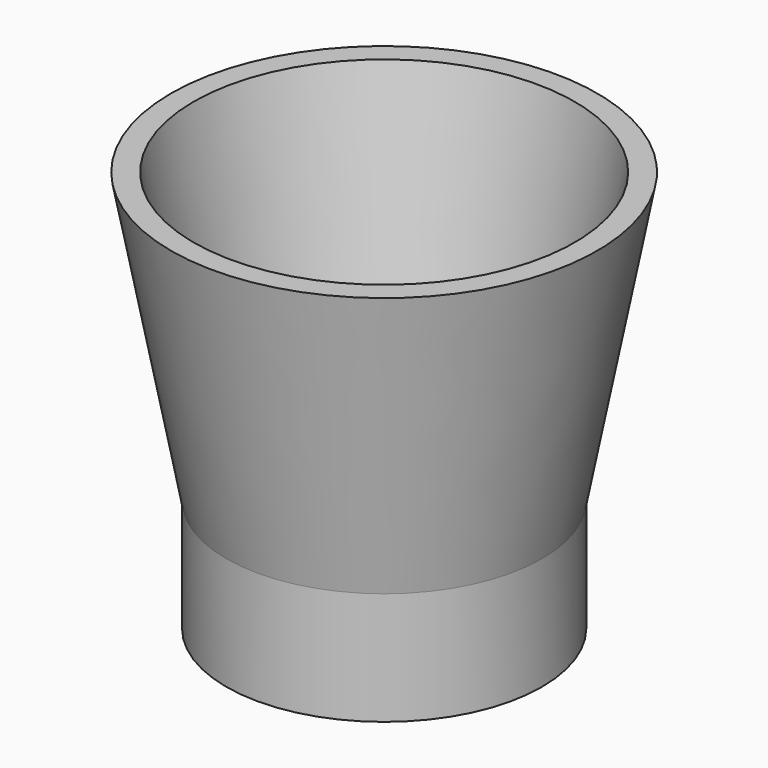
from build123d import *

# Parameters (mm, degrees)
F2_W     = 13.43354
F2_H     = 47.182618
F3_DEPTH = 25


with BuildPart() as f1:
    # F0 (on Front) → F1 (revolve)
    with BuildSketch(Plane.XZ):
        Polygon((-42.259444, 64.114208), (-47.259444, 64.114208), (-35, 0), (-35, -25), (0, -25), (0, 0), (0, 5), (-30.956063, 5), align=None)
    revolve(axis=Axis((0, 0, -12.5), (0, 0, 1)))

    # F2 (on face) → F3 (cut)
    with BuildSketch(Plane.XY.offset(5)):
        with Locations((0, -1.463118)):
            Rectangle(F2_W, F2_H)
    extrude(amount=-F3_DEPTH, mode=Mode.SUBTRACT)


solid = f1.part
